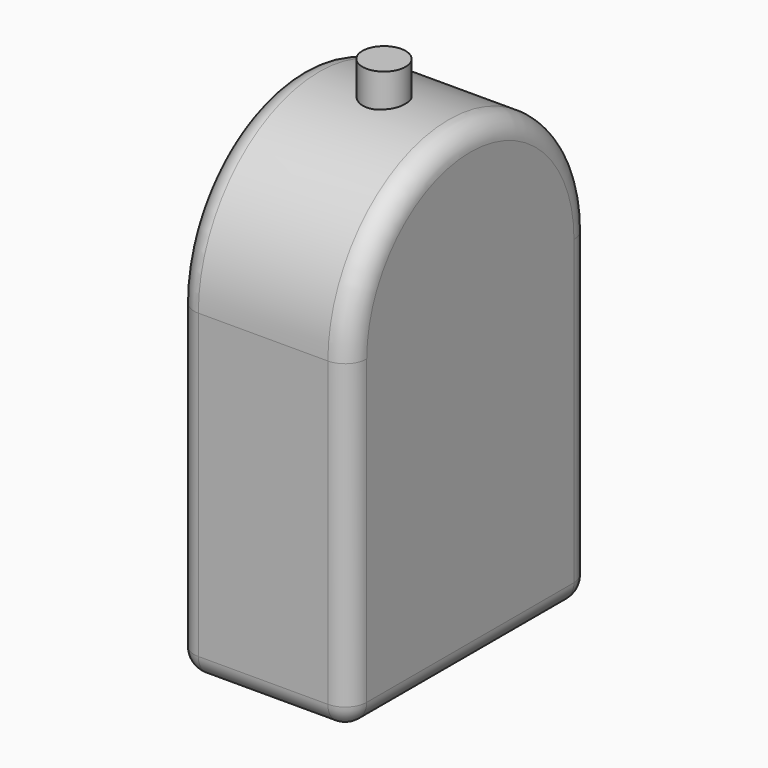
from build123d import *

# Parameters (mm, degrees)
F1_DEPTH = 40
F2_R     = 5
F3_R     = 5
F4_R     = 5
F5_R     = 5
F6_DEPTH = 80


with BuildPart() as f1:
    # F0 (on Right) → F1 (new body)
    with BuildSketch(Plane.YZ):
        with BuildLine():
            Line((-35, -37.5), (35, -37.5))
            Line((35, -37.5), (35, 37.5))
            ThreePointArc((35, 37.5), (0, 2.5), (-35, 37.5))
            Line((-35, 37.5), (-35, -37.5))
        make_face()
        with BuildLine():
            ThreePointArc((-35, 37.5), (0, 2.5), (35, 37.5))
            Line((35, 37.5), (-35, 37.5))
        make_face()
        with BuildLine():
            Line((-35, 37.5), (35, 37.5))
            ThreePointArc((35, 37.5), (0, 72.5), (-35, 37.5))
        make_face()
    extrude(amount=F1_DEPTH)

    # F2
    f2_edges = [f1.edges().sort_by_distance(p)[0] for p in [
        (40, -35, 0),
    ]]
    fillet(f2_edges, radius=F2_R)

    # F3
    f3_edges = [f1.edges().sort_by_distance(p)[0] for p in [
        (17.5, -35, -37.5),
    ]]
    fillet(f3_edges, radius=F3_R)

    # F4
    f4_edges = [f1.edges().sort_by_distance(p)[0] for p in [
        (0, 0, -37.5),
    ]]
    fillet(f4_edges, radius=F4_R)


with BuildPart() as f6:
    # F5 (on Top) → F6 (new body)
    with BuildSketch(Plane.XY):
        with Locations((20, 0)):
            Circle(F5_R)
    extrude(amount=F6_DEPTH)


solid = Compound([f1.part, f6.part])
